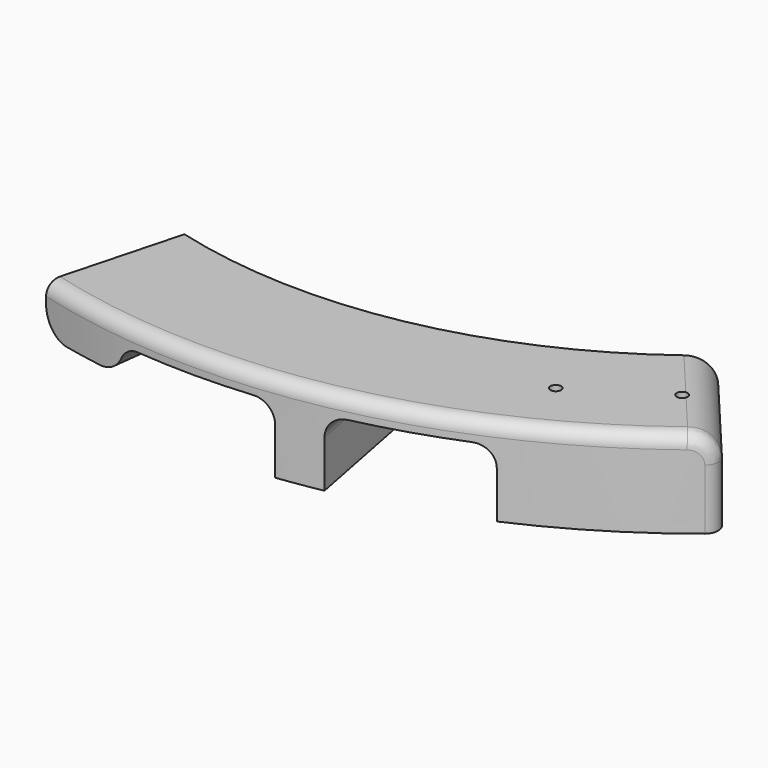
from build123d import *

# Parameters (mm, degrees)
CYLINDER017_R               = 0.8
CYLINDER017_DEPTH           = 20
CYLINDER018_R               = 0.8
CYLINDER018_DEPTH           = 20
CYLINDER019_R               = 0.8
CYLINDER019_DEPTH           = 20
CYLINDER020_R               = 0.8
CYLINDER020_DEPTH           = 20
FUSION007_PLACEMENT_ANGLE   = 10
FUSION008_PLACEMENT_ANGLE   = 297
CYLINDER015_W               = 95
CYLINDER015_H               = 10
CYLINDER015_ANGLE           = 14
CYLINDER015_PLACEMENT_ANGLE = 263
FILLET_R                    = 3
BOX_W                       = 30
BOX_H                       = 30
BOX_DEPTH                   = 8
CYLINDER029_W               = 95
CYLINDER029_H               = 10
CYLINDER029_ANGLE           = 13
CYLINDER029_PLACEMENT_ANGLE = 281
FILLET026_R                 = 3
CYLINDER016_W               = 75
CYLINDER016_H               = 19
CYLINDER016_ANGLE           = 140
CYLINDER016_PLACEMENT_ANGLE = 250
CYLINDER014_W               = 95
CYLINDER014_H               = 13
CYLINDER014_ANGLE           = 55
CYLINDER014_PLACEMENT_ANGLE = 255
FILLET013_R                 = 4
FILLET014_R                 = 2
FILLET027_R                 = 4
CHAMFER_SIZE                = 1


with BuildPart() as cylinder017:
    # Cylinder017 → Cylinder017 (new body)
    with BuildSketch(Plane(origin=(85, 0, 0), x_dir=(1, 0, 0), z_dir=(0, 0, 1))):
        Circle(CYLINDER017_R)
    extrude(amount=CYLINDER017_DEPTH)


with BuildPart() as fusion006:
    # Cylinder018 → Cylinder018 (new body)
    with BuildSketch(Plane(origin=(-85, 0, 0), x_dir=(1, 0, 0), z_dir=(0, 0, 1))):
        Circle(CYLINDER018_R)
    extrude(amount=CYLINDER018_DEPTH)

    # Fusion006: union Cylinder017
    add(cylinder017.part)


with BuildPart() as cylinder019:
    # Cylinder019 → Cylinder019 (new body)
    with BuildSketch(Plane(origin=(85, 0, 0), x_dir=(1, 0, 0), z_dir=(0, 0, 1))):
        Circle(CYLINDER019_R)
    extrude(amount=CYLINDER019_DEPTH)


with BuildPart() as obj1:
    # Cylinder020 → Cylinder020 (new body)
    with BuildSketch(Plane(origin=(-85, 0, 0), x_dir=(1, 0, 0), z_dir=(0, 0, 1))):
        Circle(CYLINDER020_R)
    extrude(amount=CYLINDER020_DEPTH)

    # Fusion007: union Cylinder019
    add(cylinder019.part)


with BuildPart() as obj1_1:
    # Fusion007 placement: moved
    add(obj1.part.rotate(Axis((0, 0, 0), (0, 0, 1)), FUSION007_PLACEMENT_ANGLE))

    # Fusion008: union Fusion006
    add(fusion006.part)


with BuildPart() as obj1_2:
    # Fusion008 placement: moved
    add(obj1_1.part.rotate(Axis((0, 0, 0), (0, 0, 1)), FUSION008_PLACEMENT_ANGLE))


with BuildPart() as fillet_body:
    # Cylinder015 → Cylinder015 (revolve)
    with BuildSketch(Plane.XZ):
        with Locations((47.5, 5)):
            Rectangle(CYLINDER015_W, CYLINDER015_H)
    revolve(axis=Axis((0, 0, 0), (0, 0, 1)), revolution_arc=CYLINDER015_ANGLE)


with BuildPart() as fillet_body_1:
    # Cylinder015 placement: moved
    add(fillet_body.part.moved(Location((0, 0, 2))).rotate(Axis((0, 0, 2), (0, 0, 1)), CYLINDER015_PLACEMENT_ANGLE))

    # Fillet
    fillet_edges = [fillet_body_1.edges().sort_by_distance(p)[0] for p in [
        (5.788794, -47.145942, 12),
        (-5.788794, -47.145942, 12),
    ]]
    fillet(fillet_edges, radius=FILLET_R)


with BuildPart() as cube:
    # Box → Box (new body)
    with BuildSketch(Plane(origin=(-35, -100, 0), x_dir=(1, 0, 0), z_dir=(0, 0, 1))):
        with Locations((15, 15)):
            Rectangle(BOX_W, BOX_H)
    extrude(amount=BOX_DEPTH)


with BuildPart() as fusion:
    # Cylinder029 → Cylinder029 (revolve)
    with BuildSketch(Plane.XZ):
        with Locations((47.5, 5)):
            Rectangle(CYLINDER029_W, CYLINDER029_H)
    revolve(axis=Axis((0, 0, 0), (0, 0, 1)), revolution_arc=CYLINDER029_ANGLE)


with BuildPart() as fusion_1:
    # Cylinder029 placement: moved
    add(fusion.part.moved(Location((0, 0, 2))).rotate(Axis((0, 0, 2), (0, 0, 1)), CYLINDER029_PLACEMENT_ANGLE))

    # Fillet026
    fillet026_edges = [fusion_1.edges().sort_by_distance(p)[0] for p in [
        (19.319991, -43.393409, 12),
        (9.063427, -46.627291, 12),
    ]]
    fillet(fillet026_edges, radius=FILLET026_R)

    # Fusion: union Fillet body, Cube
    add(fillet_body_1.part)
    add(cube.part)


with BuildPart() as cylinder016:
    # Cylinder016 → Cylinder016 (revolve)
    with BuildSketch(Plane.XZ):
        with Locations((37.5, 9.5)):
            Rectangle(CYLINDER016_W, CYLINDER016_H)
    revolve(axis=Axis((0, 0, 0), (0, 0, 1)), revolution_arc=CYLINDER016_ANGLE)


with BuildPart() as cylinder016_1:
    # Cylinder016 placement: moved
    add(cylinder016.part.moved(Location((0, 0, 2))).rotate(Axis((0, 0, 2), (0, 0, 1)), CYLINDER016_PLACEMENT_ANGLE))


with BuildPart() as obj2:
    # Cylinder014 → Cylinder014 (revolve)
    with BuildSketch(Plane.XZ):
        with Locations((47.5, 6.5)):
            Rectangle(CYLINDER014_W, CYLINDER014_H)
    revolve(axis=Axis((0, 0, 0), (0, 0, 1)), revolution_arc=CYLINDER014_ANGLE)


with BuildPart() as obj2_1:
    # Cylinder014 placement: moved
    add(obj2.part.moved(Location((0, 0, 2))).rotate(Axis((0, 0, 2), (0, 0, 1)), CYLINDER014_PLACEMENT_ANGLE))

    # Cut: cut Cylinder016
    add(cylinder016_1.part, mode=Mode.SUBTRACT)

    # Fillet013
    fillet013_edges = [obj2_1.edges().sort_by_distance(p)[0] for p in [
        (54.636947, -65.113778, 15),
    ]]
    fillet(fillet013_edges, radius=FILLET013_R)

    # Fillet014
    fillet014_edges = [obj2_1.edges().sort_by_distance(p)[0] for p in [
        (18.604179, -93.160531, 15),
    ]]
    fillet(fillet014_edges, radius=FILLET014_R)

    # Cut018: cut Fusion
    add(fusion_1.part, mode=Mode.SUBTRACT)

    # Fillet027
    fillet027_edges = [obj2_1.edges().sort_by_distance(p)[0] for p in [
        (-10.358894, -84.366423, 8),
        (-21.999619, -82.103695, 8),
    ]]
    fillet(fillet027_edges, radius=FILLET027_R)

    # Cut019: cut obj1
    add(obj1_2.part, mode=Mode.SUBTRACT)

    # Chamfer
    chamfer_edges = [obj2_1.edges().sort_by_distance(p)[0] for p in [
        (38.226, -75.022749, 2),
        (50.672825, -67.24511, 2),
    ]]
    chamfer(chamfer_edges, length=CHAMFER_SIZE)


solid = obj2_1.part
